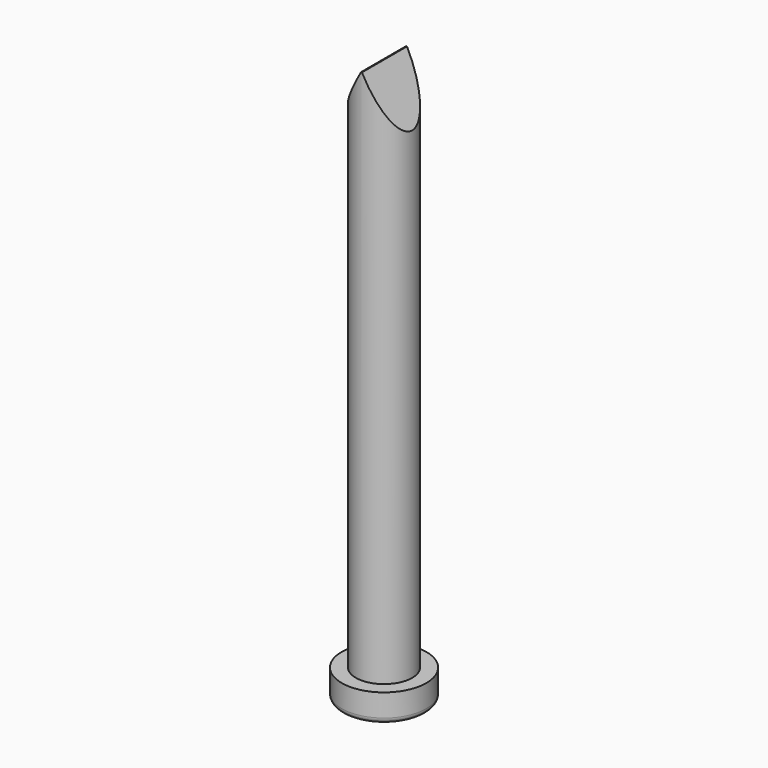
from build123d import *

# Parameters (mm, degrees)
F0_R          = 0.5
F1_DEPTH      = 10
F0_R_2        = 0.75
F2_DEPTH      = 0.5
F3_R          = 0.1
F5_DEPTH      = 25
F5_DEPTH_BACK = 25


with BuildPart() as f1:
    # F0 (on Top) → F1 (new body)
    with BuildSketch(Plane.XY):
        Circle(F0_R)
    extrude(amount=F1_DEPTH)

    # F0 (on Top) → F2 (join)
    with BuildSketch(Plane.XY):
        Circle(F0_R_2)
        Circle(F0_R, mode=Mode.SUBTRACT)
    extrude(amount=F2_DEPTH)

    # F3
    f3_edges = [f1.edges().sort_by_distance(p)[0] for p in [
        (-0.75, 0, 0),
    ]]
    fillet(f3_edges, radius=F3_R)

    # F4 (on Front) → F5 (cut, two sides)
    with BuildSketch(Plane.XZ) as f5_sk:
        Polygon((-0.6920135929, 8.791741915), (0, 10.0138969719), (0.6348980824, 8.791741915), (0.6348980824, 10.8100445941), (-0.7408999372, 10.8100445941), (-0.7408999372, 8.791741915), align=None)
    extrude(amount=-F5_DEPTH, mode=Mode.SUBTRACT)
    extrude(f5_sk.sketch, amount=F5_DEPTH_BACK, mode=Mode.SUBTRACT)


solid = f1.part
